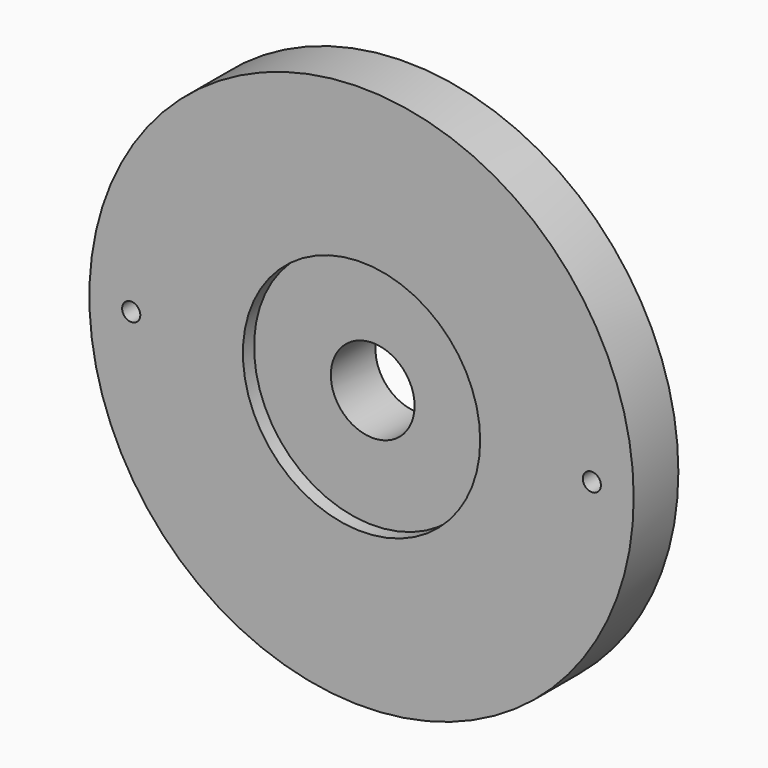
from build123d import *

# Parameters (mm, degrees)
F0_R     = 9.75
F0_R_2   = 5
F0_R_3   = 1.5
F1_DEPTH = 2.5
F2_DEPTH = 0.5
F3_R     = 4.25
F3_R_2   = 1.5
F4_DEPTH = 0.5
F3_R_3   = 0.325
F5_DEPTH = 2.501


with BuildPart() as f1:
    # F0 (on Front) → F1 (new body)
    with BuildSketch(Plane.XZ):
        Circle(F0_R)
        Circle(F0_R_2, mode=Mode.SUBTRACT)
        Circle(F0_R_2)
        Circle(F0_R_3, mode=Mode.SUBTRACT)
    extrude(amount=F1_DEPTH)

    # F0 (on Front) → F2 (cut)
    with BuildSketch(Plane.XZ):
        Circle(F0_R)
        Circle(F0_R_2, mode=Mode.SUBTRACT)
    extrude(amount=F2_DEPTH, mode=Mode.SUBTRACT)

    # F3 (on face) → F4 (cut)
    with BuildSketch(Plane.XZ.offset(2.5)):
        Circle(F3_R)
        Circle(F3_R_2, mode=Mode.SUBTRACT)
    extrude(amount=-F4_DEPTH, mode=Mode.SUBTRACT)

    # F3 (on face) → F5 (cut, through all)
    with BuildSketch(Plane.XZ.offset(2.5)):
        with Locations((8.25, 0)):
            Circle(F3_R_3)
        with Locations((-8.25, 0)):
            Circle(F3_R_3)
    extrude(amount=-F5_DEPTH, mode=Mode.SUBTRACT)


solid = f1.part
